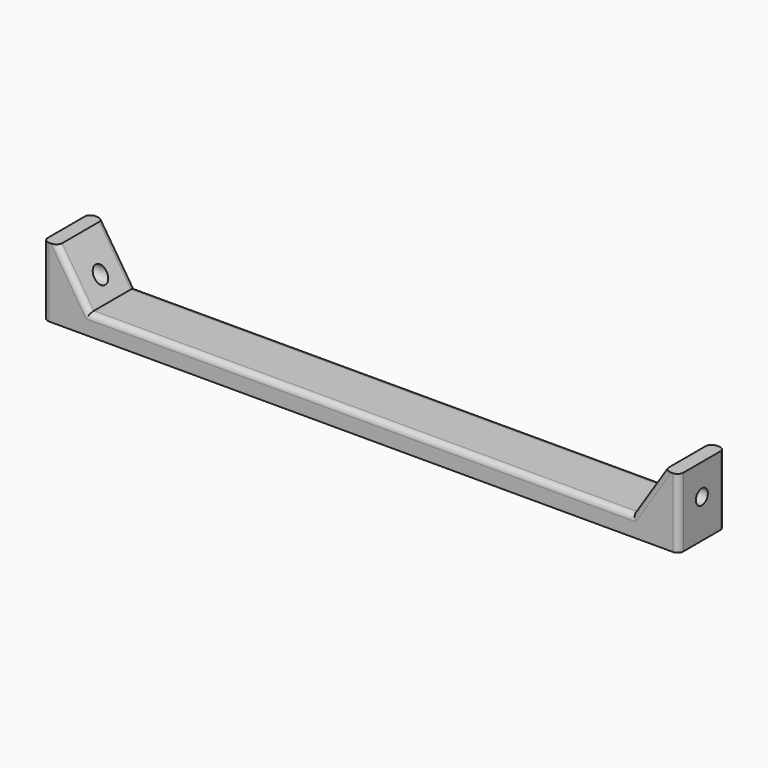
from build123d import *

# Parameters (mm, degrees)
F1_DEPTH = 5
F2_R     = 1.3
F3_DEPTH = 110
F4_R     = 1


with BuildPart() as f1:
    # F0 (on Front) → F1 (new body, symmetric)
    with BuildSketch(Plane.XZ):
        Polygon((-55, 12), (-55, 0), (0, 0), (55, 0), (55, 12), (52.5, 12), (47, 3.5), (0, 3.5), (-47, 3.5), (-52.5, 12), align=None)
    extrude(amount=F1_DEPTH, both=True)

    # F2 (on face) → F3 (cut, through all)
    with BuildSketch(Plane(origin=(-55, 0, 0), x_dir=(0, -1, 0), z_dir=(-1, 0, 0))):
        with Locations((0, 6.7)):
            Circle(F2_R)
    extrude(amount=-F3_DEPTH, mode=Mode.SUBTRACT)

    # F4
    f4_edges = [f1.edges().sort_by_distance(p)[0] for p in [
        (-49.75, 5, 7.75),
        (-49.75, -5, 7.75),
        (0, -5, 3.5),
        (0, 5, 3.5),
        (49.75, 5, 7.75),
        (49.75, -5, 7.75),
        (-55, -5, 6),
        (-55, 5, 6),
        (55, -5, 6),
        (55, 5, 6),
    ]]
    fillet(f4_edges, radius=F4_R)


solid = f1.part
